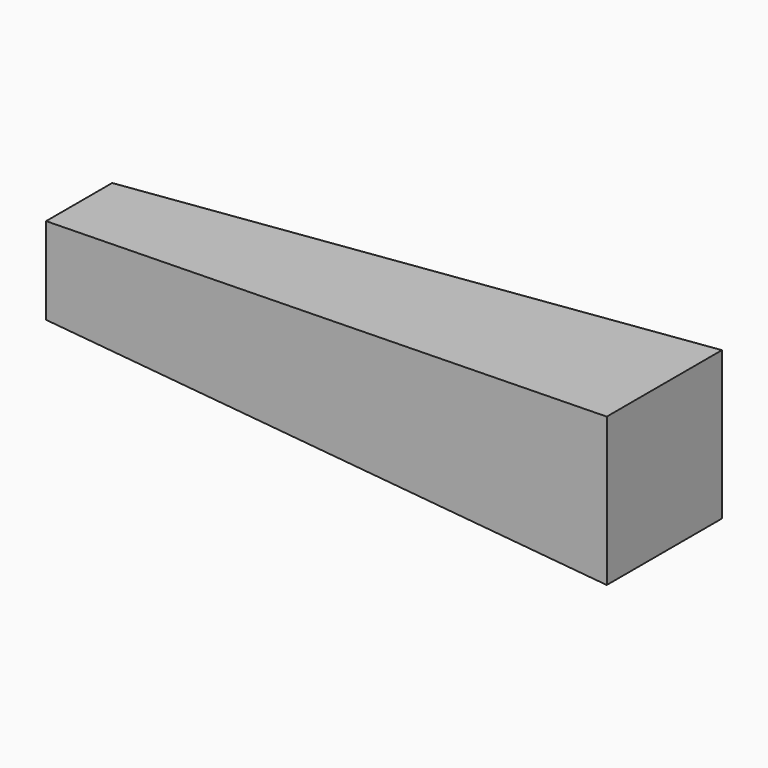
from build123d import *

# Parameters (mm, degrees)
F0_W     = 71.7207808048
F0_H     = 75.452260673
F1_DEPTH = 508
F1_TAPER = -3


with BuildPart() as f1:
    # F0 (on Right) → F1 (new body)
    with BuildSketch(Plane.YZ):
        with Locations((-10.0423796102, 9.7743719816)):
            Rectangle(F0_W, F0_H)
    extrude(amount=F1_DEPTH, taper=F1_TAPER)


solid = f1.part
